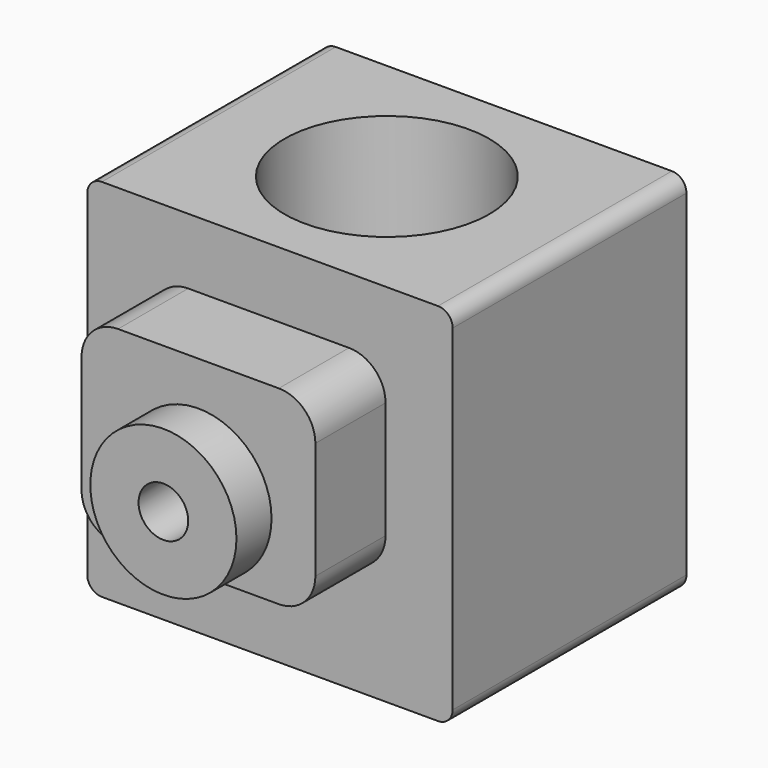
from build123d import *

# Parameters (mm, degrees)
F4_DEPTH  = 12
F2_R      = 10
F5_DEPTH  = 6
F3_R      = 3.4
F6_DEPTH  = 18.001
F7_DEPTH  = 40
F9_R      = 14
F10_DEPTH = 50.001
F9_R_2    = 2.085835
F11_DEPTH = 20
F12_R     = 10
F13_DEPTH = 6
F14_DEPTH = 25


with BuildPart() as f4:
    # F1 (on face) → F4 (new body)
    with BuildSketch(Plane.XZ):
        with BuildLine():
            Line((51.534967, -13.733306), (29.534967, -13.733306))
            ThreePointArc((29.534967, -13.733306), (25.999433, -15.197772), (24.534967, -18.733306))
            Line((24.534967, -18.733306), (24.534967, -34.733306))
            ThreePointArc((24.534967, -34.733306), (25.999433, -38.26884), (29.534967, -39.733306))
            Line((29.534967, -39.733306), (51.534967, -39.733306))
            ThreePointArc((51.534967, -39.733306), (55.070501, -38.26884), (56.534967, -34.733306))
            Line((56.534967, -34.733306), (56.534967, -18.733306))
            ThreePointArc((56.534967, -18.733306), (55.070501, -15.197772), (51.534967, -13.733306))
        make_face()
    extrude(amount=F4_DEPTH)

    # F2 (on face) → F5 (join)
    with BuildSketch(Plane.XZ.offset(12)):
        with Locations((40.534967, -29.733306)):
            Circle(F2_R)
    extrude(amount=F5_DEPTH)

    # F3 (on face) → F6 (cut, through all)
    with BuildSketch(Plane.XZ):
        with Locations((40.534967, -29.733306)):
            Circle(F3_R)
    extrude(amount=F6_DEPTH, mode=Mode.SUBTRACT)

    # F0 (on Front) → F7 (join)
    with BuildSketch(Plane.XZ):
        with BuildLine():
            Line((63.719967, -4.733306), (17.719967, -4.733306))
            ThreePointArc((17.719967, -4.733306), (16.305754, -5.319092), (15.719967, -6.733306))
            Line((15.719967, -6.733306), (15.719967, -52.733306))
            ThreePointArc((15.719967, -52.733306), (16.305754, -54.147519), (17.719967, -54.733306))
            Line((17.719967, -54.733306), (63.719967, -54.733306))
            ThreePointArc((63.719967, -54.733306), (65.134181, -54.147519), (65.719967, -52.733306))
            Line((65.719967, -52.733306), (65.719967, -6.733306))
            ThreePointArc((65.719967, -6.733306), (65.134181, -5.319092), (63.719967, -4.733306))
        make_face()
    extrude(amount=-F7_DEPTH)

    # F9 (on face) → F10 (cut, through all)
    with BuildSketch(Plane(origin=(0, 0, -54.733306), x_dir=(1, 0, 0), z_dir=(0, 0, -1))):
        with Locations((40.719967, -20)):
            Circle(F9_R)
    extrude(amount=-F10_DEPTH, mode=Mode.SUBTRACT)

    # F9 (on face) → F11 (cut)
    with BuildSketch(Plane(origin=(0, 0, -54.733306), x_dir=(1, 0, 0), z_dir=(0, 0, -1))):
        with Locations((27.284938, -6.564971)):
            Circle(F9_R_2)
        with Locations((21.719967, -20)):
            Circle(F9_R_2)
        with Locations((27.284938, -33.435029)):
            Circle(F9_R_2)
        with Locations((54.154996, -6.564971)):
            Circle(F9_R_2)
        with Locations((59.719967, -20)):
            Circle(F9_R_2)
        with Locations((54.154996, -33.435029)):
            Circle(F9_R_2)
    extrude(amount=-F11_DEPTH, mode=Mode.SUBTRACT)

    # F12 (on face) → F13 (join)
    with BuildSketch(Plane.XZ):
        with Locations((40.534967, -29.733306)):
            Circle(F12_R)
    extrude(amount=F13_DEPTH)

    # F3 (on face) → F14 (cut)
    with BuildSketch(Plane.XZ):
        with Locations((40.534967, -29.733306)):
            Circle(F3_R)
    extrude(amount=F14_DEPTH, mode=Mode.SUBTRACT)


solid = f4.part
